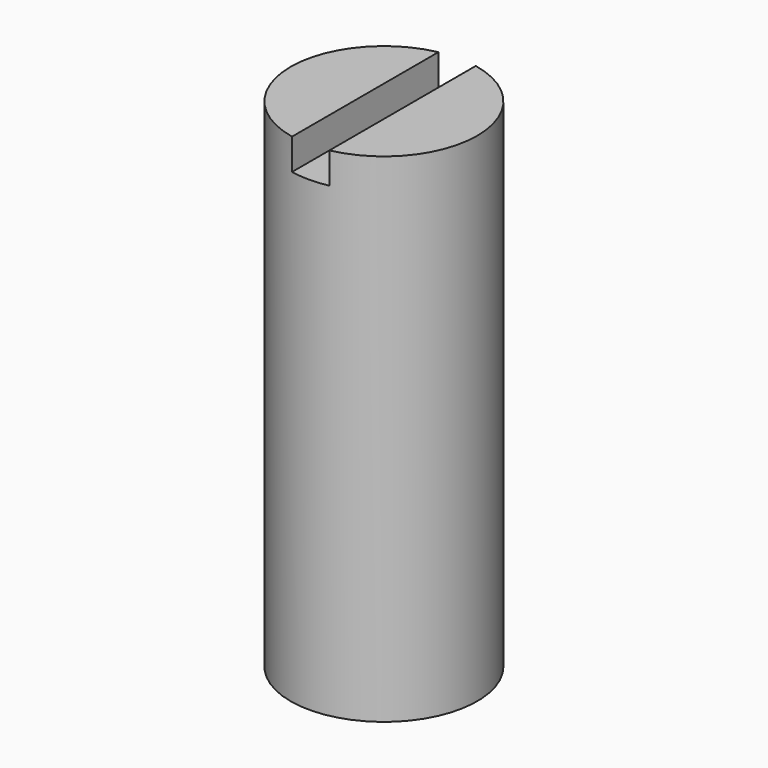
from build123d import *

# Parameters (mm, degrees)
F0_W     = 15
F0_H     = 80
F3_DEPTH = 5


with BuildPart() as f1:
    # F0 (on Front) → F1 (revolve)
    with BuildSketch(Plane.XZ):
        with Locations((-7.5, 40)):
            Rectangle(F0_W, F0_H)
    revolve(axis=Axis((0, 0, 40), (0, 0, 1)))

    # F2 (on face) → F3 (cut)
    with BuildSketch(Plane.XY.offset(80)):
        with BuildLine():
            ThreePointArc((3, 14.6969384567), (0, 15), (-3, 14.6969384567))
            Line((-3, 14.6969384567), (-3, -14.6969384567))
            ThreePointArc((-3, -14.6969384567), (0, -15), (3, -14.6969384567))
            Line((3, -14.6969384567), (3, 14.6969384567))
        make_face()
    extrude(amount=-F3_DEPTH, mode=Mode.SUBTRACT)


solid = f1.part
